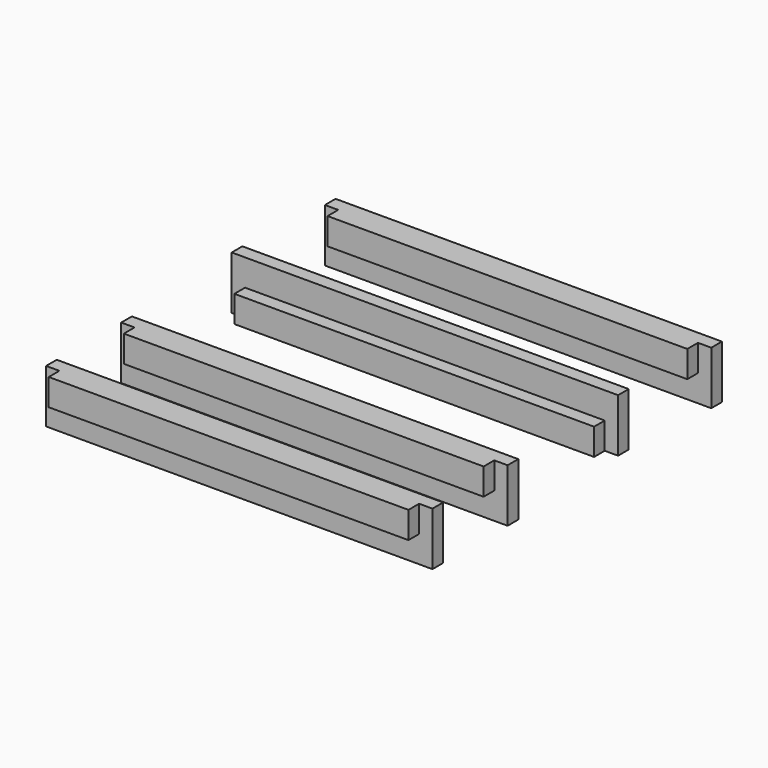
from build123d import *

# Parameters (mm, degrees)
F0_W       = 368.3
F0_H       = 25.4
F0_W_2     = 184.15
F1_DEPTH   = 50.8
F2_W       = 12.7
F2_H       = 12.7
F3_DEPTH   = 61.214
F4_W       = 12.7
F4_H       = 12.7
F5_DEPTH   = 76.2
F6_W       = 12.7
F6_H       = 50.8
F7_DEPTH   = 12.7
F8_W       = 12.7
F8_H       = 50.8
F9_DEPTH   = 12.7
F10_DEPTH  = 50.8
F11_W      = 12.7
F11_H      = 50.8
F12_DEPTH  = 12.7
F13_W      = 12.7
F13_H      = 50.8
F14_DEPTH  = 12.7
F15_W      = 12.7
F15_H      = 12.7
F16_DEPTH  = 90.678
F17_W      = 12.7
F17_H      = 25.4
F18_DEPTH  = 431.8
F19_W      = 12.7
F19_H      = 25.4
F20_DEPTH  = 457.2
F21_W      = 12.7
F21_H      = 25.4
F22_DEPTH  = 457.2
F23_W      = 12.7
F23_H      = 25.4
F24_DEPTH  = 431.8
F22_FACE_W = 342.9
F22_FACE_H = 12.7
F26_DEPTH  = 25.4
F25_W      = 12.7
F25_H      = 25.4
F27_DEPTH  = 685.8


with BuildPart() as f1:
    # F0 (on Top) → F1 (new body)
    with BuildSketch(Plane.XY):
        with Locations((0, 44.773751)):
            Rectangle(F0_W, F0_H)
        with Locations((-92.075, -44.773751)):
            Rectangle(F0_W_2, F0_H)
        with Locations((92.075, -44.773751)):
            Rectangle(F0_W_2, F0_H)
        with Locations((-92.075, 287.450363)):
            Rectangle(F0_W_2, F0_H)
        with Locations((92.075, 287.450363)):
            Rectangle(F0_W_2, F0_H)
        with Locations((-98.425, 184.347487)):
            Rectangle(F0_W_2, F0_H)
        with Locations((85.725, 184.347487)):
            Rectangle(F0_W_2, F0_H)
    extrude(amount=F1_DEPTH)

    # F2 (on face) → F3 (cut)
    with BuildSketch(Plane.XY.offset(50.8)):
        with Locations((-177.8, 281.100363)):
            Rectangle(F2_W, F2_H)
    extrude(amount=-F3_DEPTH, mode=Mode.SUBTRACT)

    # F4 (on face) → F5 (cut)
    with BuildSketch(Plane.XY.offset(50.8)):
        with Locations((-184.15, 177.997487)):
            Rectangle(F4_W, F4_H)
    extrude(amount=-F5_DEPTH, mode=Mode.SUBTRACT)

    # F6 (on face) → F7 (cut)
    with BuildSketch(Plane(origin=(-184.15, 0, 0), x_dir=(0, -1, 0), z_dir=(-1, 0, 0))):
        with Locations((-38.423751, 25.4)):
            Rectangle(F6_W, F6_H)
    extrude(amount=-F7_DEPTH, mode=Mode.SUBTRACT)

    # F8 (on face) → F9 (cut)
    with BuildSketch(Plane(origin=(-184.15, 0, 0), x_dir=(0, -1, 0), z_dir=(-1, 0, 0))):
        with Locations((51.123751, 25.4)):
            Rectangle(F8_W, F8_H)
    extrude(amount=-F9_DEPTH, mode=Mode.SUBTRACT)

    # F2 (on face) → F10 (cut)
    with BuildSketch(Plane.XY.offset(50.8)):
        with Locations((-177.8, 281.100363)):
            Rectangle(F2_W, F2_H)
        with Locations((177.8, 281.100363)):
            Rectangle(F2_W, F2_H)
    extrude(amount=-F10_DEPTH, mode=Mode.SUBTRACT)

    # F11 (on face) → F12 (cut)
    with BuildSketch(Plane.YZ.offset(177.8)):
        with Locations((177.997487, 25.4)):
            Rectangle(F11_W, F11_H)
    extrude(amount=-F12_DEPTH, mode=Mode.SUBTRACT)

    # F13 (on face) → F14 (cut)
    with BuildSketch(Plane.YZ.offset(184.15)):
        with Locations((38.423751, 25.4)):
            Rectangle(F13_W, F13_H)
    extrude(amount=-F14_DEPTH, mode=Mode.SUBTRACT)

    # F15 (on face) → F16 (cut)
    with BuildSketch(Plane(origin=(0, 0, 0), x_dir=(1, 0, 0), z_dir=(0, 0, -1))):
        with Locations((177.8, 51.123751)):
            Rectangle(F15_W, F15_H)
    extrude(amount=-F16_DEPTH, mode=Mode.SUBTRACT)

    # F17 (on face) → F18 (cut)
    with BuildSketch(Plane(origin=(-171.45, 0, 0), x_dir=(0, -1, 0), z_dir=(-1, 0, 0))):
        with Locations((51.123751, 12.7)):
            Rectangle(F17_W, F17_H)
    extrude(amount=-F18_DEPTH, mode=Mode.SUBTRACT)

    # F19 (on face) → F20 (cut)
    with BuildSketch(Plane.YZ.offset(171.45)):
        with Locations((38.423751, 12.7)):
            Rectangle(F19_W, F19_H)
    extrude(amount=-F20_DEPTH, mode=Mode.SUBTRACT)

    # F21 (on face) → F22 (cut)
    with BuildSketch(Plane.YZ.offset(165.1)):
        with Locations((177.997487, 12.7)):
            Rectangle(F21_W, F21_H)
    extrude(amount=-F22_DEPTH, mode=Mode.SUBTRACT)

    # F23 (on face) → F24 (cut)
    with BuildSketch(Plane.YZ.offset(171.45)):
        with Locations((281.100363, 12.7)):
            Rectangle(F23_W, F23_H)
    extrude(amount=-F24_DEPTH, mode=Mode.SUBTRACT)

    # F22_face (on face) → F26 (join)
    with BuildSketch(Plane(origin=(-6.35, 177.997487, 25.4), x_dir=(1, 0, 0), z_dir=(0, 0, -1))):
        Rectangle(F22_FACE_W, F22_FACE_H)
    extrude(amount=F26_DEPTH)

    # F25 (on face) → F27 (cut)
    with BuildSketch(Plane.YZ.offset(165.1)):
        with Locations((177.997487, 38.1)):
            Rectangle(F25_W, F25_H)
    extrude(amount=-F27_DEPTH, mode=Mode.SUBTRACT)


solid = f1.part
